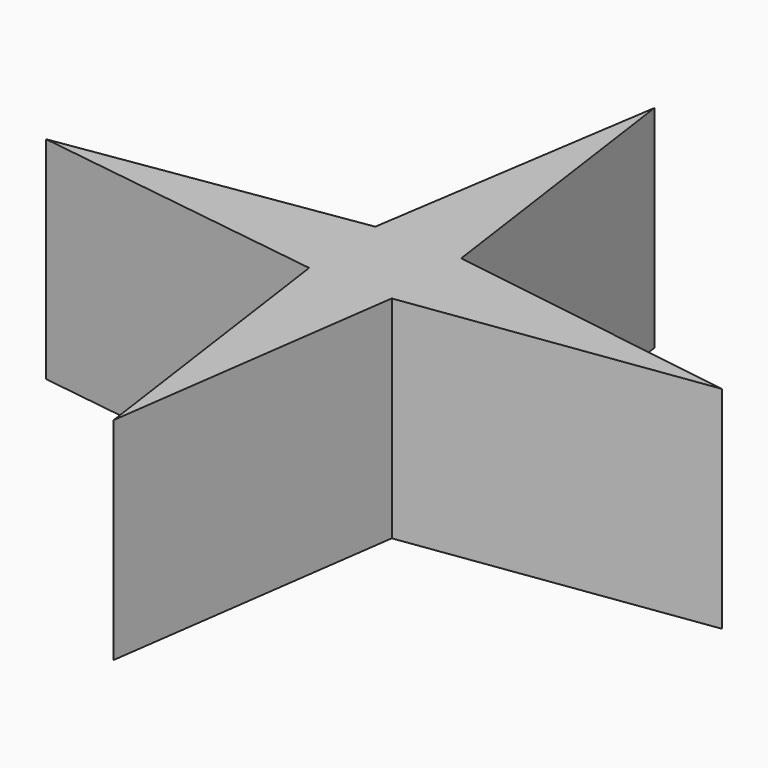
from build123d import *

# Parameters (mm, degrees)
F1_DEPTH = 12.5


with BuildPart() as f1:
    # F0 (on Top) → F1 (new body, symmetric)
    with BuildSketch(Plane.XY):
        Polygon((4.859764, 5.339032), (0, 40), (-5.303114, 5.339032), (-40, 0), (-4.91754, -4.926962), (0, -40), (4.859764, -4.926962), (40, 0), align=None)
    extrude(amount=F1_DEPTH, both=True)


solid = f1.part
